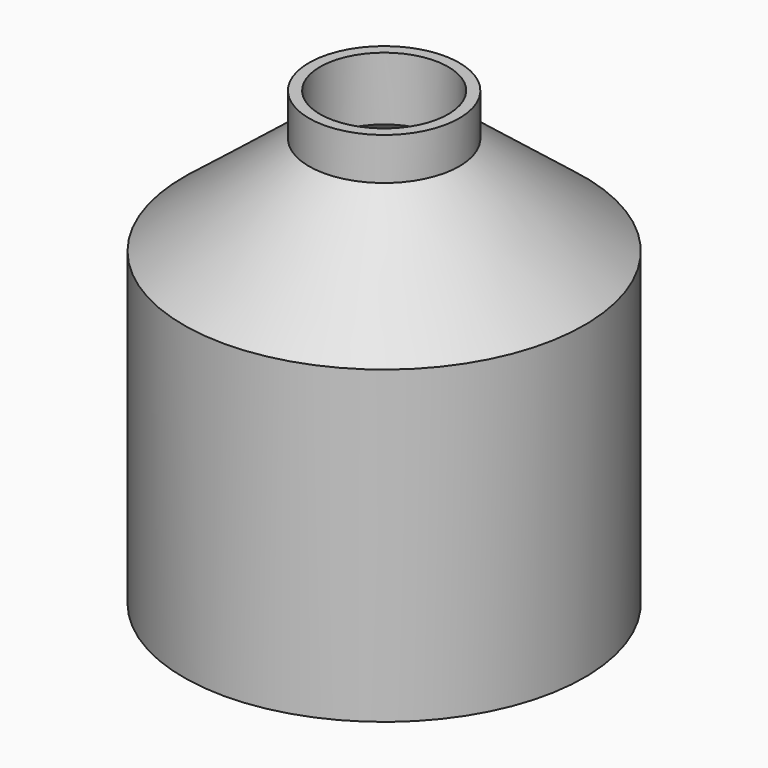
from build123d import *

# Parameters (mm, degrees)
PAD003_DEPTH    = 10
SKETCH008_W     = 13.2
SKETCH008_H     = 1.8
POCKET005_DEPTH = 10
SKETCH011_R     = 5.1
PAD005_DEPTH    = 2
SKETCH012_R     = 4.35
POCKET006_DEPTH = 6
SKETCH013_W     = 15.4
SKETCH013_H     = 4.4
PAD006_DEPTH    = 0.6


with BuildPart() as part:
    # Sketch006 → Revolution (revolve)
    with BuildSketch(Plane.YZ):
        Polygon((-4, 26.637276), (-12, 20), (-12, 0), (-13.6, 0), (-13.6, 21.046803), (-4, 28.637276), (0, 28.637276), (0, 26.637276), align=None)
    revolve(axis=Axis((0, 0, 0), (0, 0, 1)))

    # Sketch007 (on Face3 of Revolution) → Pad003 (new body)
    with BuildSketch(Plane.YX):
        Polygon((-12.6, 2.2), (1.2, 2.2), (1.2, 12.3), (2.8, 12.3), (2.8, -12.3), (1.2, -12.3), (1.2, -2.2), (-12.6, -2.2), align=None)
    extrude(amount=-PAD003_DEPTH)

    # Sketch008 → Pocket005 (cut)
    with BuildSketch(Plane.YX):
        with Locations((-5.2, 0)):
            Rectangle(SKETCH008_W, SKETCH008_H)
    extrude(amount=-POCKET005_DEPTH, mode=Mode.SUBTRACT)

    # Sketch011 → Pad005 (join, symmetric)
    with BuildSketch(Plane(origin=(0, 0, 28.637276), x_dir=(0, -1, 0), z_dir=(0, 0, 1))):
        Circle(SKETCH011_R)
    extrude(amount=PAD005_DEPTH, both=True)

    # Sketch012 (on Face22 of Pad005) → Pocket006 (cut)
    with BuildSketch(Plane(origin=(0, 0, 30.637276), x_dir=(0, -1, 0), z_dir=(0, 0, 1))):
        Circle(SKETCH012_R)
    extrude(amount=-POCKET006_DEPTH, mode=Mode.SUBTRACT)

    # Sketch013 (on Face5 of Pocket006) → Pad006 (join)
    with BuildSketch(Plane(origin=(0, 0, 10), x_dir=(0, -1, 0), z_dir=(0, 0, 1))):
        with Locations((5.497757, 0)):
            Rectangle(SKETCH013_W, SKETCH013_H)
    extrude(amount=PAD006_DEPTH)


solid = part.part
